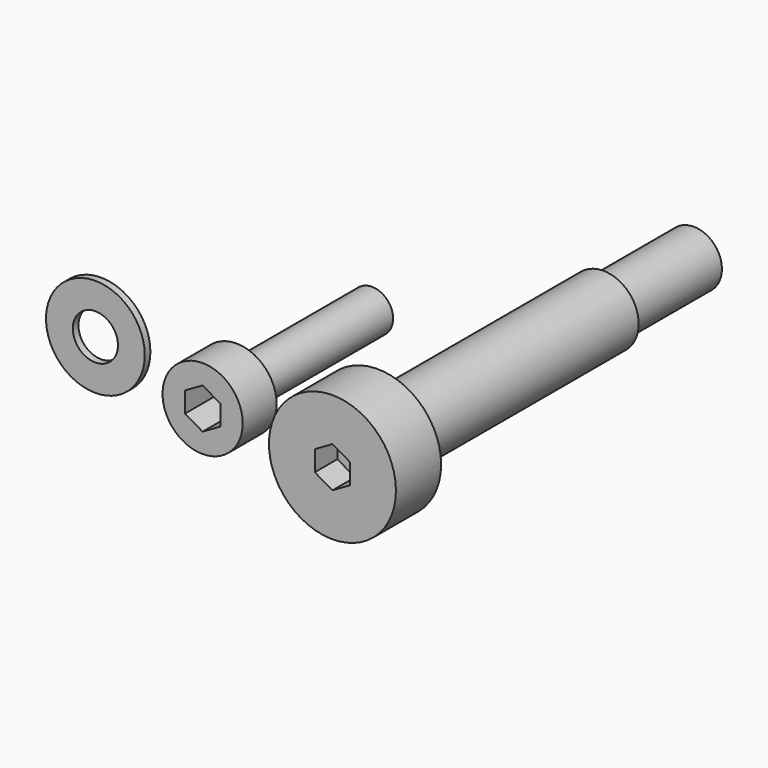
from build123d import *

# Parameters (mm, degrees)
F0_R      = 1.5
F1_DEPTH  = 12
F0_R_2    = 2.84
F2_DEPTH  = 3
F3_START  = 1.9
F3_DEPTH  = 23.1
F4_R      = 4.5
F4_R_2    = 2.5
F4_R_3    = 2
F5_DEPTH  = 4
F6_DEPTH  = 20
F7_DEPTH  = 28
F8_R      = 3.5
F8_R_2    = 1.6
F9_DEPTH  = 0.5
F10_START = 2
F10_DEPTH = 2


with BuildPart() as f1:
    # F0 (on Front) → F1 (new body)
    with BuildSketch(Plane.XZ):
        Circle(F0_R)
        Polygon((0, 1.443375673), (1.25, 0.7216878365), (1.25, -0.7216878365), (0, -1.443375673), (-1.25, -0.7216878365), (-1.25, 0.7216878365), align=None, mode=Mode.SUBTRACT)
        Polygon((1.25, -0.7216878365), (1.25, 0.7216878365), (0, 1.443375673), (-1.25, 0.7216878365), (-1.25, -0.7216878365), (0, -1.443375673), align=None)
    extrude(amount=-F1_DEPTH)

    # F0 (on Front) → F2 (join)
    with BuildSketch(Plane.XZ):
        Circle(F0_R_2)
        Circle(F0_R, mode=Mode.SUBTRACT)
        Circle(F0_R_2)
        Circle(F0_R, mode=Mode.SUBTRACT)
        Circle(F0_R)
        Polygon((0, 1.443375673), (1.25, 0.7216878365), (1.25, -0.7216878365), (0, -1.443375673), (-1.25, -0.7216878365), (-1.25, 0.7216878365), align=None, mode=Mode.SUBTRACT)
    extrude(amount=F2_DEPTH)

    # F0 (on Front) → F3 (cut)
    with BuildSketch(Plane.XZ.offset(F3_START)):
        Polygon((1.25, -0.7216878365), (1.25, 0.7216878365), (0, 1.443375673), (-1.25, 0.7216878365), (-1.25, -0.7216878365), (0, -1.443375673), align=None)
    extrude(amount=F3_DEPTH, mode=Mode.SUBTRACT)


with BuildPart() as f5:
    # F4 (on Front) → F5 (new body)
    with BuildSketch(Plane.XZ):
        with Locations((10, 0)):
            Circle(F4_R)
        with Locations((10, 0)):
            Circle(F4_R_2, mode=Mode.SUBTRACT)
        with Locations((10, 0)):
            Circle(F4_R_2)
        with Locations((10, 0)):
            Circle(F4_R_3, mode=Mode.SUBTRACT)
        with Locations((10, 0)):
            Circle(F4_R_3)
        Polygon((10, 1.443375673), (11.25, 0.7216878365), (11.25, -0.7216878365), (10, -1.443375673), (8.75, -0.7216878365), (8.75, 0.7216878365), align=None, mode=Mode.SUBTRACT)
        Polygon((11.25, -0.7216878365), (11.25, 0.7216878365), (10, 1.443375673), (8.75, 0.7216878365), (8.75, -0.7216878365), (10, -1.443375673), align=None)
    extrude(amount=F5_DEPTH)

    # F4 (on Front) → F6 (join)
    with BuildSketch(Plane.XZ):
        with Locations((10, 0)):
            Circle(F4_R_2)
        with Locations((10, 0)):
            Circle(F4_R_3, mode=Mode.SUBTRACT)
        with Locations((10, 0)):
            Circle(F4_R_3)
        Polygon((10, 1.443375673), (11.25, 0.7216878365), (11.25, -0.7216878365), (10, -1.443375673), (8.75, -0.7216878365), (8.75, 0.7216878365), align=None, mode=Mode.SUBTRACT)
        Polygon((11.25, -0.7216878365), (11.25, 0.7216878365), (10, 1.443375673), (8.75, 0.7216878365), (8.75, -0.7216878365), (10, -1.443375673), align=None)
    extrude(amount=-F6_DEPTH)

    # F4 (on Front) → F7 (join)
    with BuildSketch(Plane.XZ):
        with Locations((10, 0)):
            Circle(F4_R_3)
        Polygon((10, 1.443375673), (11.25, 0.7216878365), (11.25, -0.7216878365), (10, -1.443375673), (8.75, -0.7216878365), (8.75, 0.7216878365), align=None, mode=Mode.SUBTRACT)
        Polygon((11.25, -0.7216878365), (11.25, 0.7216878365), (10, 1.443375673), (8.75, 0.7216878365), (8.75, -0.7216878365), (10, -1.443375673), align=None)
    extrude(amount=-F7_DEPTH)

    # F4 (on Front) → F10 (cut)
    with BuildSketch(Plane.XZ.offset(F10_START)):
        Polygon((11.25, -0.7216878365), (11.25, 0.7216878365), (10, 1.443375673), (8.75, 0.7216878365), (8.75, -0.7216878365), (10, -1.443375673), align=None)
    extrude(amount=F10_DEPTH, mode=Mode.SUBTRACT)


with BuildPart() as f9:
    # F8 (on Front) → F9 (new body)
    with BuildSketch(Plane.XZ):
        with Locations((-10, 0)):
            Circle(F8_R)
        with Locations((-10, 0)):
            Circle(F8_R_2, mode=Mode.SUBTRACT)
    extrude(amount=-F9_DEPTH)


solid = Compound([f1.part, f5.part, f9.part])
